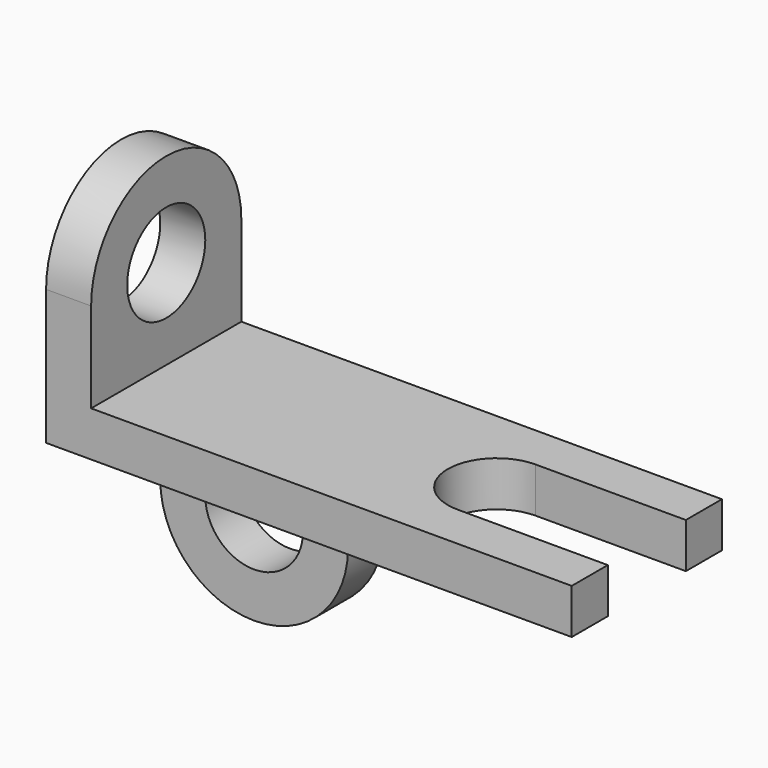
from build123d import *

# Parameters (mm, degrees)
F1_DEPTH = 152.4
F3_DEPTH = 152.4
F5_DEPTH = 152.4


with BuildPart() as f1:
    # F0 (on Top) → F1 (new body)
    with BuildSketch(Plane.XY):
        with BuildLine():
            Line((889, 165.1), (889, 317.5))
            Line((889, 317.5), (-889, 317.5))
            Line((-889, 317.5), (-889, -317.5))
            Line((-889, -317.5), (889, -317.5))
            Line((889, -317.5), (889, -165.1))
            Line((889, -165.1), (381, -165.1))
            ThreePointArc((381, -165.1), (215.9, 0), (381, 165.1))
            Line((381, 165.1), (889, 165.1))
        make_face()
    extrude(amount=F1_DEPTH)

    # F2 (on face) → F3 (join)
    with BuildSketch(Plane(origin=(-889, 0, 0), x_dir=(0, -1, 0), z_dir=(-1, 0, 0))):
        with BuildLine():
            Line((-317.5, 457.2), (-317.5, 152.4))
            Line((-317.5, 152.4), (317.5, 152.4))
            Line((317.5, 152.4), (317.5, 457.2))
            Line((317.5, 457.2), (165.1, 457.2))
            ThreePointArc((165.1, 457.2), (0, 292.1), (-165.1, 457.2))
            Line((-165.1, 457.2), (-317.5, 457.2))
        make_face()
        with BuildLine():
            ThreePointArc((317.5, 457.2), (0, 774.7), (-317.5, 457.2))
            Line((-317.5, 457.2), (-165.1, 457.2))
            ThreePointArc((-165.1, 457.2), (0, 622.3), (165.1, 457.2))
            Line((165.1, 457.2), (317.5, 457.2))
        make_face()
    extrude(amount=-F3_DEPTH)

    # F4 (on face) → F5 (join)
    with BuildSketch(Plane(origin=(0, 317.5, 0), x_dir=(-1, 0, 0), z_dir=(0, 1, 0))):
        with BuildLine():
            Line((889, -304.8), (889, 0))
            Line((889, 0), (254, 0))
            Line((254, 0), (254, -304.8))
            Line((254, -304.8), (406.4, -304.8))
            ThreePointArc((406.4, -304.8), (571.5, -139.7), (736.6, -304.8))
            Line((736.6, -304.8), (889, -304.8))
        make_face()
        with BuildLine():
            ThreePointArc((254, -304.8), (571.5, -622.3), (889, -304.8))
            Line((889, -304.8), (736.6, -304.8))
            ThreePointArc((736.6, -304.8), (571.5, -469.9), (406.4, -304.8))
            Line((406.4, -304.8), (254, -304.8))
        make_face()
    extrude(amount=-F5_DEPTH)


solid = f1.part
